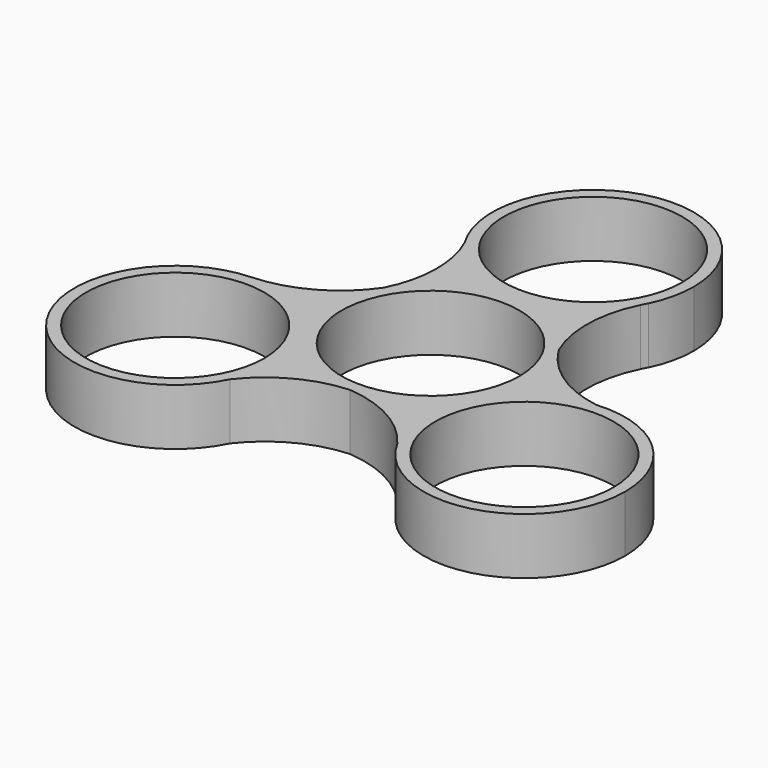
from build123d import *

# Parameters (mm, degrees)
F0_R     = 11.05
F0_R_2   = 11.025
F1_DEPTH = 7


with BuildPart() as f1:
    # F0 (on Top) → F1 (new body)
    with BuildSketch(Plane.XY):
        with BuildLine():
            ThreePointArc((-11.0461612392, -3.7125125716), (-14.8685727474, 5.2846790995), (-23.9980745138, 8.779315733))
            ThreePointArc((-23.9980745138, 8.779315733), (-34.0371038773, -10.5088441236), (-12.33035811, -9.2311863406))
            ThreePointArc((-12.33035811, -9.2311863406), (-11.3714427801, -6.5455728327), (-11.0461612392, -3.7125125716))
        make_face()
        with Locations((-23.5461612392, -3.7125125716)):
            Circle(F0_R, mode=Mode.SUBTRACT)
        with BuildLine():
            ThreePointArc((8.870525764, 15.1491642204), (8.7544037917, 15.3347768931), (8.6411530026, 15.522155215))
            ThreePointArc((8.6411530026, 15.522155215), (-2.1532258589, 21.285997274), (-12.6956291663, 15.0732504746))
            ThreePointArc((-12.6956291663, 15.0732504746), (-12.7255651301, 2.5560305186), (-1.8902964384, -3.7112371449))
            ThreePointArc((-1.8902964384, -3.7112371449), (6.9485383265, -0.0500719097), (10.6097035616, 8.7887628551))
            ThreePointArc((10.6097035616, 8.7887628551), (10.1670722118, 12.0857101151), (8.870525764, 15.1491642204))
        make_face()
        with Locations((-1.8902964384, 8.7887628551)):
            Circle(F0_R_2, mode=Mode.SUBTRACT)
        with BuildLine():
            ThreePointArc((-1.8902964384, -3.7112371449), (-12.7255651301, 2.5560305186), (-12.6956291663, 15.0732504746))
            ThreePointArc((-12.6956291663, 15.0732504746), (-17.6112038906, 10.6052302037), (-23.9980745138, 8.779315733))
            ThreePointArc((-23.9980745138, 8.779315733), (-14.8685727474, 5.2846790995), (-11.0461612392, -3.7125125716))
            ThreePointArc((-11.0461612392, -3.7125125716), (-11.3714427801, -6.5455728327), (-12.33035811, -9.2311863406))
            ThreePointArc((-12.33035811, -9.2311863406), (-7.7103691444, -5.3363327957), (-1.8902964384, -3.7112371449))
        make_face()
        with BuildLine():
            ThreePointArc((-1.8902964384, -3.7112371449), (-12.7255651301, 2.5560305186), (-12.6956291663, 15.0732504746))
            ThreePointArc((-12.6956291663, 15.0732504746), (-17.6112038906, 10.6052302037), (-23.9980745138, 8.779315733))
            ThreePointArc((-23.9980745138, 8.779315733), (-14.8685727474, 5.2846790995), (-11.0461612392, -3.7125125716))
            ThreePointArc((-11.0461612392, -3.7125125716), (-11.3714427801, -6.5455728327), (-12.33035811, -9.2311863406))
            ThreePointArc((-12.33035811, -9.2311863406), (-7.7103691444, -5.3363327957), (-1.8902964384, -3.7112371449))
        make_face()
        with BuildLine():
            ThreePointArc((18.7244426358, 8.7254297447), (13.1022301218, 10.870787164), (8.870525764, 15.1491642204))
            ThreePointArc((8.870525764, 15.1491642204), (10.1670722118, 12.0857101151), (10.6097035616, 8.7887628551))
            ThreePointArc((10.6097035616, 8.7887628551), (6.9485383265, -0.0500719097), (-1.8902964384, -3.7112371449))
            ThreePointArc((-1.8902964384, -3.7112371449), (4.0858895282, -5.5241985412), (8.756714547, -9.6696805851))
            ThreePointArc((8.756714547, -9.6696805851), (8.7661649656, 2.2233518851), (18.7244426358, 8.7254297447))
        make_face()
        with BuildLine():
            ThreePointArc((32.2563861412, -3.7319011332), (28.2225158999, 5.4645463825), (18.7244426358, 8.7254297447))
            ThreePointArc((18.7244426358, 8.7254297447), (8.7661649656, 2.2233518851), (8.756714547, -9.6696805851))
            ThreePointArc((8.756714547, -9.6696805851), (22.8185834791, -15.8510160953), (32.2563861412, -3.7319011332))
        make_face()
        with Locations((19.7563861412, -3.7319011332)):
            Circle(F0_R, mode=Mode.SUBTRACT)
        with BuildLine():
            ThreePointArc((-12.6956291663, 15.0732504746), (-2.1532258589, 21.285997274), (8.6411530026, 15.522155215))
            ThreePointArc((8.6411530026, 15.522155215), (7.4555052239, 21.6681189433), (8.954051031, 27.7453708939))
            ThreePointArc((8.954051031, 27.7453708939), (-1.7023820096, 21.4637061555), (-12.5428435613, 27.4221682371))
            ThreePointArc((-12.5428435613, 27.4221682371), (-11.2088543287, 21.2302595617), (-12.6956291663, 15.0732504746))
        make_face()
        with BuildLine():
            ThreePointArc((8.870525764, 15.1491642204), (8.7544037917, 15.3347768931), (8.6411530026, 15.522155215))
            ThreePointArc((8.6411530026, 15.522155215), (-2.1532258589, 21.285997274), (-12.6956291663, 15.0732504746))
            ThreePointArc((-12.6956291663, 15.0732504746), (-12.7255651301, 2.5560305186), (-1.8902964384, -3.7112371449))
            ThreePointArc((-1.8902964384, -3.7112371449), (6.9485383265, -0.0500719097), (10.6097035616, 8.7887628551))
            ThreePointArc((10.6097035616, 8.7887628551), (10.1670722118, 12.0857101151), (8.870525764, 15.1491642204))
        make_face()
        with Locations((-1.8902964384, 8.7887628551)):
            Circle(F0_R_2, mode=Mode.SUBTRACT)
        with BuildLine():
            ThreePointArc((18.7244426358, 8.7254297447), (13.1022301218, 10.870787164), (8.870525764, 15.1491642204))
            ThreePointArc((8.870525764, 15.1491642204), (10.1670722118, 12.0857101151), (10.6097035616, 8.7887628551))
            ThreePointArc((10.6097035616, 8.7887628551), (6.9485383265, -0.0500719097), (-1.8902964384, -3.7112371449))
            ThreePointArc((-1.8902964384, -3.7112371449), (4.0858895282, -5.5241985412), (8.756714547, -9.6696805851))
            ThreePointArc((8.756714547, -9.6696805851), (8.7661649656, 2.2233518851), (18.7244426358, 8.7254297447))
        make_face()
        with BuildLine():
            ThreePointArc((-12.5428435613, 27.4221682371), (-1.7023820096, 21.4637061555), (8.954051031, 27.7453708939))
            ThreePointArc((8.954051031, 27.7453708939), (9.1458587664, 28.1207619966), (9.3484307097, 28.4904555117))
            ThreePointArc((9.3484307097, 28.4904555117), (10.290304724, 31.1546334869), (10.6097035616, 33.9622936024))
            ThreePointArc((10.6097035616, 33.9622936024), (-5.2883224068, 45.9915670434), (-12.5428435613, 27.4221682371))
        make_face()
        with Locations((-1.8902964384, 33.9622936024)):
            Circle(F0_R, mode=Mode.SUBTRACT)
    extrude(amount=F1_DEPTH)


solid = f1.part
